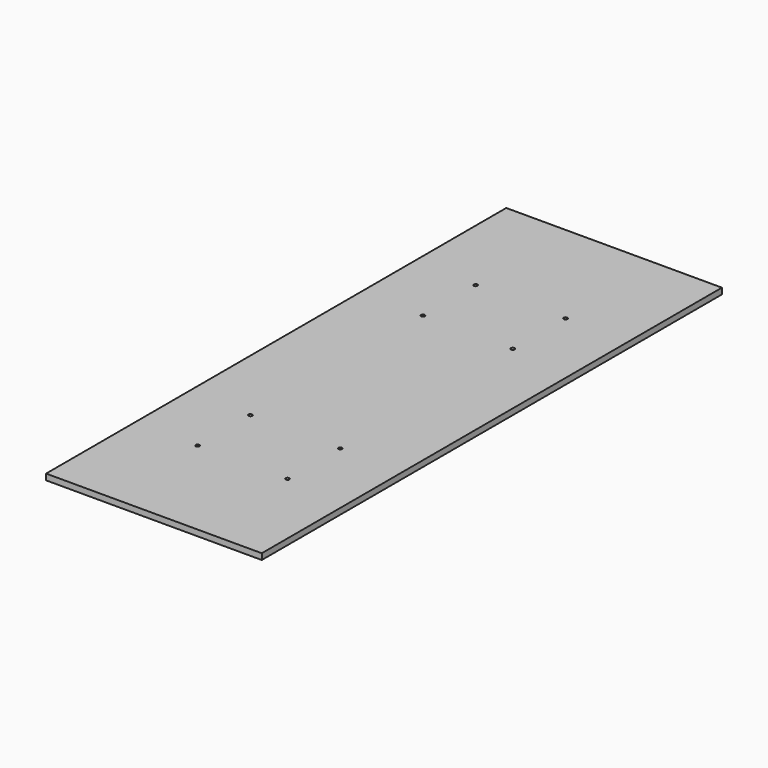
from build123d import *

# Parameters (mm, degrees)
F0_W     = 457.2
F0_H     = 1219.2
F0_R     = 3.96875
F1_DEPTH = 12.7


with BuildPart() as f1:
    # F0 (on Top) → F1 (new body)
    with BuildSketch(Plane.XY):
        with Locations((-502.717255, 109.967895)):
            Rectangle(F0_W, F0_H)
        with Locations((-597.967255, -264.682105)):
            Circle(F0_R, mode=Mode.SUBTRACT)
        with Locations((-597.967255, -124.982105)):
            Circle(F0_R, mode=Mode.SUBTRACT)
        with Locations((-407.467255, -264.682105)):
            Circle(F0_R, mode=Mode.SUBTRACT)
        with Locations((-407.467255, -124.982105)):
            Circle(F0_R, mode=Mode.SUBTRACT)
        with Locations((-597.967255, 332.217895)):
            Circle(F0_R, mode=Mode.SUBTRACT)
        with Locations((-597.967255, 471.917895)):
            Circle(F0_R, mode=Mode.SUBTRACT)
        with Locations((-407.467255, 332.217895)):
            Circle(F0_R, mode=Mode.SUBTRACT)
        with Locations((-407.467255, 471.917895)):
            Circle(F0_R, mode=Mode.SUBTRACT)
    extrude(amount=F1_DEPTH)


solid = f1.part
